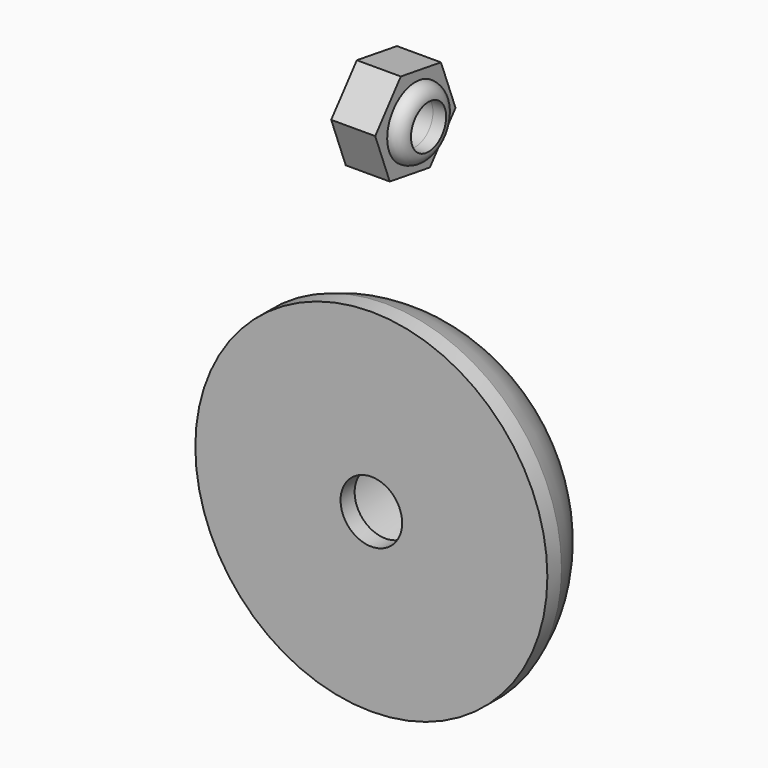
from build123d import *

# Parameters (mm, degrees)
F2_R     = 2.5
F3_DEPTH = 5


with BuildPart() as f1:
    # F0 (on Right) → F1 (revolve)
    with BuildSketch(Plane.YZ):
        with BuildLine():
            Line((0, 20), (0, 3.5))
            Line((0, 3.5), (2, 3.5))
            Line((2, 3.5), (2, 6.5))
            Line((2, 6.5), (9.83374, 6.5))
            ThreePointArc((9.83374, 6.5), (11.360252, 7.207807), (11.806288, 8.830237))
            ThreePointArc((11.806288, 8.830237), (8.492816, 15.810742), (2, 20))
            Line((2, 20), (0, 20))
        make_face()
    revolve(axis=Axis((0, 27.256893, 0), (0, 1, 0)))


with BuildPart() as f3:
    # F2 (on Right) → F3 (new body)
    with BuildSketch(Plane.YZ):
        Polygon((-2.067531, 45.99765), (-5.702169, 41.511811), (-3.634637, 36.121204), (2.067531, 35.216435), (5.702169, 39.702274), (3.634637, 45.092881), align=None)
        with Locations((0, 40.607043)):
            Circle(F2_R, mode=Mode.SUBTRACT)
    extrude(amount=F3_DEPTH)

    # F4 (on Front) → F5 (revolve)
    with BuildSketch(Plane.XZ):
        with BuildLine():
            Line((5, 44.607043), (5, 43.107043))
            Line((5, 43.107043), (6.5, 43.107043))
            ThreePointArc((6.5, 43.107043), (6.06066, 44.167703), (5, 44.607043))
        make_face()
    revolve(axis=Axis((3.867194, 0, 40.607043), (1, 0, 0)))


solid = Compound([f1.part, f3.part])
